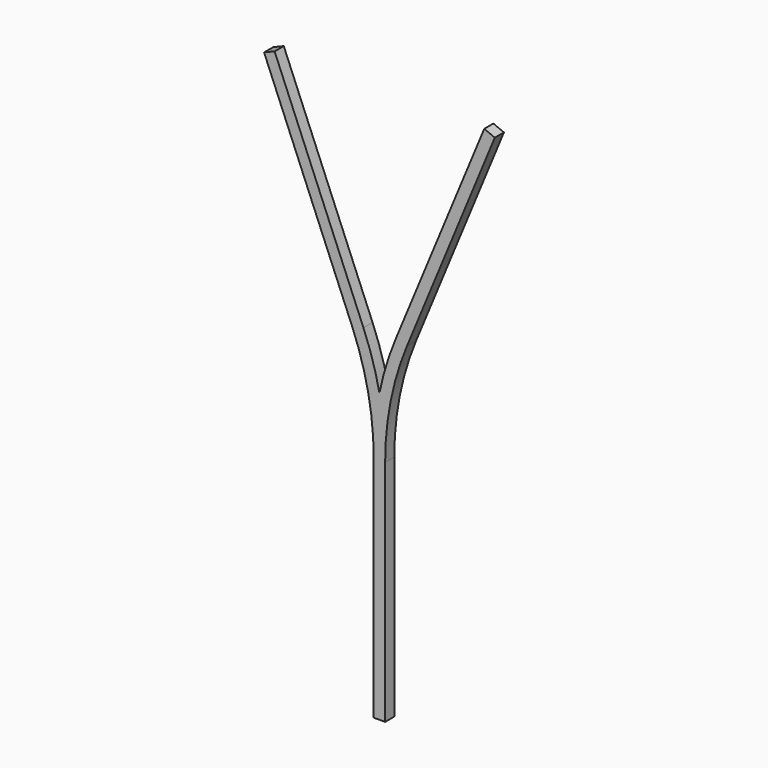
from build123d import *

# Parameters (mm, degrees)
F1_DEPTH = 0.2


with BuildPart() as f1:
    # F0 (on Front) → F1 (new body)
    with BuildSketch(Plane.XZ):
        with BuildLine():
            Line((-1.83688, 4.630629), (-2.021656, 4.554092))
            Line((-2.021656, 4.554092), (-0.480602, 0.833659))
            ThreePointArc((-0.480602, 0.833659), (-0.196074, -0.104307), (-0.1, -1.079758))
            Line((-0.1, -1.079758), (-0.1, -5.085197))
            Line((-0.1, -5.085197), (0.1, -5.085197))
            Line((0.1, -5.085197), (0.1, -1.079758))
            ThreePointArc((0.1, -1.079758), (0.196074, -0.104307), (0.480602, 0.833659))
            Line((0.480602, 0.833659), (2.021656, 4.554092))
            Line((2.021656, 4.554092), (1.83688, 4.630629))
            Line((1.83688, 4.630629), (0.280602, 0.873441))
            ThreePointArc((0.280602, 0.873441), (0.1182, 0.420979), (0, -0.044989))
            ThreePointArc((0, -0.044989), (-0.1182, 0.420979), (-0.280602, 0.873441))
            Line((-0.280602, 0.873441), (-1.83688, 4.630629))
        make_face()
    extrude(amount=F1_DEPTH)


solid = f1.part
